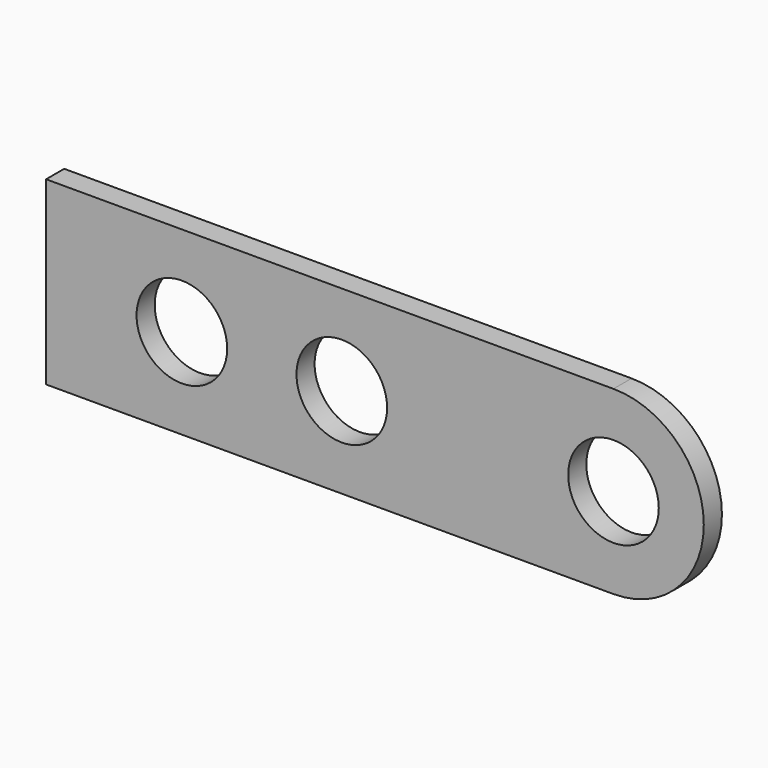
from build123d import *

# Parameters (mm, degrees)
F0_R     = 2
F1_DEPTH = 0.5


with BuildPart() as f1:
    # F0 (on Front) → F1 (new body, symmetric)
    with BuildSketch(Plane.XZ):
        with BuildLine():
            Line((-25.05, -3.9878), (0, -3.9878))
            ThreePointArc((0, -3.9878), (3.9878, 0), (0, 3.9878))
            Line((0, 3.9878), (-25.05, 3.9878))
            Line((-25.05, 3.9878), (-25.05, -3.9878))
        make_face()
        with Locations((-19.0556, 0)):
            Circle(F0_R, mode=Mode.SUBTRACT)
        with Locations((-11.9944, 0)):
            Circle(F0_R, mode=Mode.SUBTRACT)
        Circle(F0_R, mode=Mode.SUBTRACT)
    extrude(amount=F1_DEPTH, both=True)


solid = f1.part
